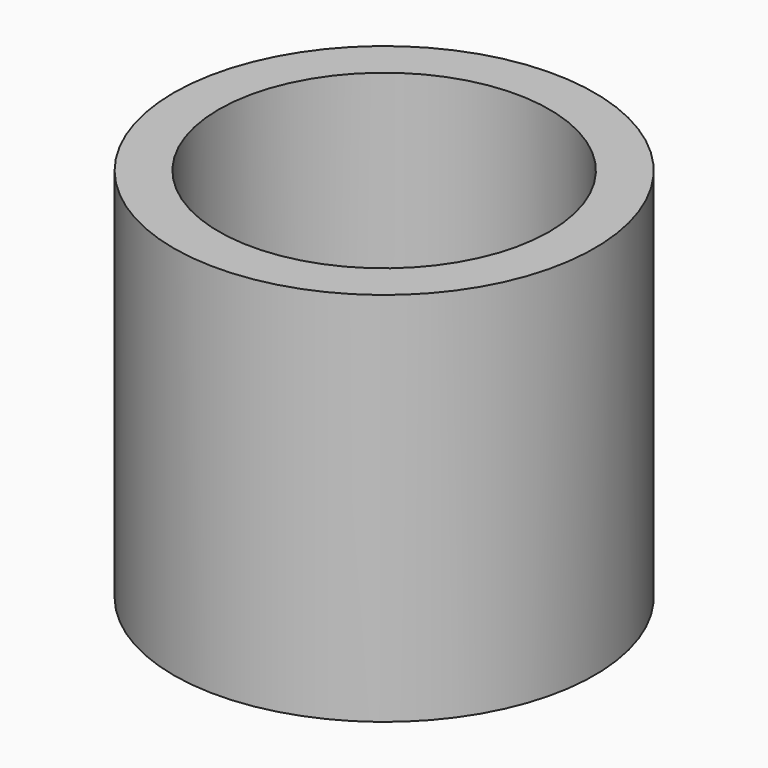
from build123d import *

# Parameters (mm, degrees)
SKETCH_W = 1.2
SKETCH_H = 10


with BuildPart() as part:
    # Sketch → Revolution (revolve)
    with BuildSketch(Plane.XZ):
        with Locations((-5, 5)):
            Rectangle(SKETCH_W, SKETCH_H)
    revolve(axis=Axis((0, 0, 0), (0, 0, 1)))


solid = part.part
